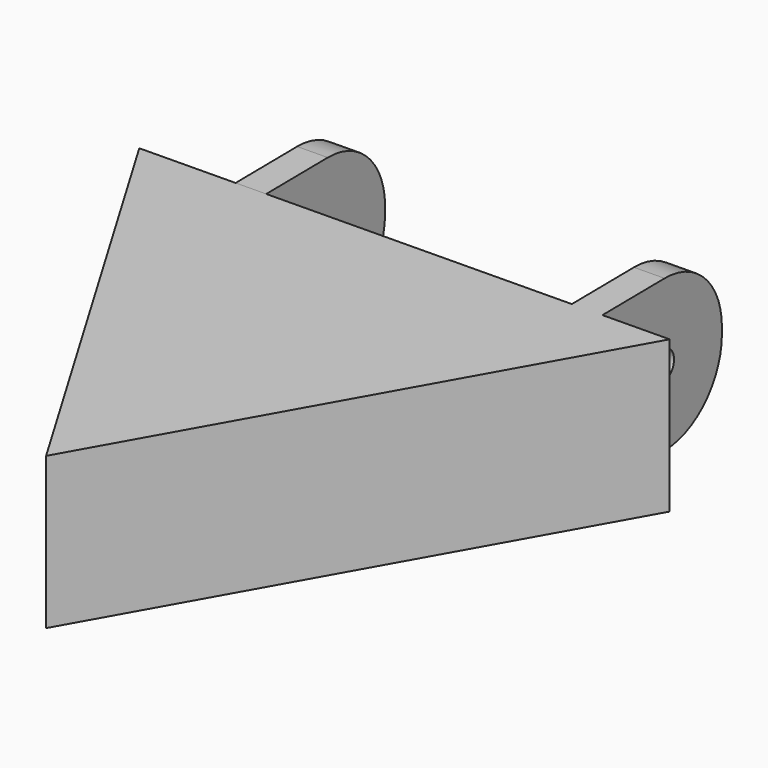
from build123d import *

# Parameters (mm, degrees)
F1_DEPTH = 12.7
F4_DEPTH = 12.7
F5_W     = 2.54
F5_H     = 12.7
F5_H_2   = 12.6950503836
F6_DEPTH = 12.7
F7_R     = 1.27
F8_DEPTH = 41.148
F9_R     = 6.096
F10_R    = 6.096


with BuildPart() as f1:
    # F0 (on Top) → F1 (new body)
    with BuildSketch(Plane.XY):
        Polygon((16.375921394, 19.4162096841), (-25.0028915287, 4.4738590955), (8.6269701347, -23.8900687796), align=None)
    extrude(amount=F1_DEPTH)


with BuildPart() as f4:
    # F3 (on Top) → F4 (new body)
    with BuildSketch(Plane.XY):
        Polygon((0.3085586267, -25.3981257492), (21.841142794, 12.9662824839), (-22.1497014207, 12.4318432653), align=None)
    extrude(amount=F4_DEPTH)

    # F5 (on face) → F6 (join)
    with BuildSketch(Plane(origin=(-0.1542793134, 12.6990628746, 0), x_dir=(-0.9999262106, -0.0121479774, 0), z_dir=(-0.0121479774, 0.9999262106, 0))):
        with Locations((-15.151783279, 6.35)):
            Rectangle(F5_W, F5_H)
        with Locations((12.788216721, 6.3096207778)):
            Rectangle(F5_W, F5_H_2)
    extrude(amount=F6_DEPTH)

    # F7 (on face) → F8 (cut)
    with BuildSketch(Plane(origin=(-14.0571793737, -0.1707788994, 0), x_dir=(0.0121479774, -0.9999262106, 0), z_dir=(-0.9999262106, -0.0121479774, 0))):
        with Locations((-19.0405060285, 6.3191110491)):
            Circle(F7_R)
    extrude(amount=-F8_DEPTH, mode=Mode.SUBTRACT)

    # F9
    f9_edges = [f4.edges().sort_by_distance(p)[0] for p in [
        (-13.095832, 25.242775, 12.657146),
        (-13.095832, 25.242775, -0.037904),
    ]]
    fillet(f9_edges, radius=F9_R)

    # F10
    f10_edges = [f4.edges().sort_by_distance(p)[0] for p in [
        (14.842107, 25.582189, 12.7),
        (14.842107, 25.582189, 0),
    ]]
    fillet(f10_edges, radius=F10_R)


solid = f4.part
